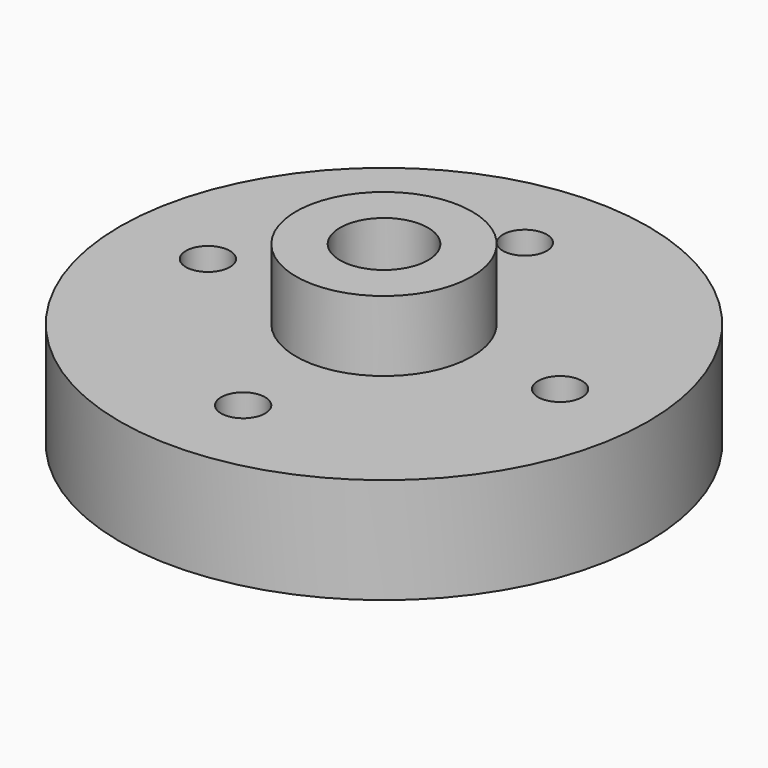
from build123d import *

# Parameters (mm, degrees)
F0_R     = 6.35
F0_R_2   = 3.175
F1_DEPTH = 12.7
F2_R     = 19.05
F2_R_2   = 6.35
F3_DEPTH = 7.62
F5_DEPTH = 4.572
F7_D     = 3.175


with BuildPart() as f1:
    # F0 (on Top) → F1 (new body)
    with BuildSketch(Plane.XY):
        Circle(F0_R)
        Circle(F0_R_2, mode=Mode.SUBTRACT)
    extrude(amount=F1_DEPTH)

    # F2 (on Top) → F3 (join)
    with BuildSketch(Plane.XY):
        Circle(F2_R)
        Circle(F2_R_2, mode=Mode.SUBTRACT)
    extrude(amount=F3_DEPTH)

    # F4 (on Top) → F5 (join)
    with BuildSketch(Plane.XY):
        Polygon((-0.803219, 3.429), (0, 2.286), (0, 3.429), align=None)
        Polygon((0, 3.429), (0, 2.286), (0.803219, 3.429), align=None)
        Polygon((1.365698, 3.246239), (1.343677, 1.849413), (2.015516, 2.774119), align=None)
        Polygon((2.015516, 2.774119), (1.343677, 1.849413), (2.665333, 2.301999), align=None)
        Polygon((3.012965, 1.823525), (2.174115, 0.706413), (3.261173, 1.059619), align=None)
        Polygon((3.261173, 1.059619), (2.174115, 0.706413), (3.509381, 0.295713), align=None)
        Polygon((0, -2.286), (-0.803219, -3.429), (0, -3.429), align=None)
        Polygon((0.803219, -3.429), (0, -2.286), (0, -3.429), align=None)
        Polygon((1.365698, -3.246239), (2.015516, -2.774119), (1.343677, -1.849413), align=None)
        Polygon((1.343677, -1.849413), (2.015516, -2.774119), (2.665333, -2.301999), align=None)
        Polygon((3.012965, -1.823525), (3.261173, -1.059619), (2.174115, -0.706413), align=None)
        Polygon((2.174115, -0.706413), (3.261173, -1.059619), (3.509381, -0.295713), align=None)
        Polygon((-2.665333, 2.301999), (-1.343677, 1.849413), (-2.015516, 2.774119), align=None)
        Polygon((-2.015516, 2.774119), (-1.343677, 1.849413), (-1.365698, 3.246239), align=None)
        Polygon((-3.012965, 1.823525), (-3.261173, 1.059619), (-2.174115, 0.706413), align=None)
        Polygon((-2.174115, 0.706413), (-3.261173, 1.059619), (-3.509381, 0.295713), align=None)
        Polygon((-3.261173, -1.059619), (-2.174115, -0.706413), (-3.509381, -0.295713), align=None)
        Polygon((-3.012965, -1.823525), (-2.174115, -0.706413), (-3.261173, -1.059619), align=None)
        Polygon((-2.015516, -2.774119), (-1.343677, -1.849413), (-2.665333, -2.301999), align=None)
        Polygon((-1.365698, -3.246239), (-1.343677, -1.849413), (-2.015516, -2.774119), align=None)
    extrude(amount=F5_DEPTH)

    # F7 (through all)
    with Locations(Plane.XY.offset(7.62)):
        with Locations((0, -12.7), (-12.7, 0), (0, 12.7), (12.7, 0)):
            Hole(F7_D / 2)


solid = f1.part
